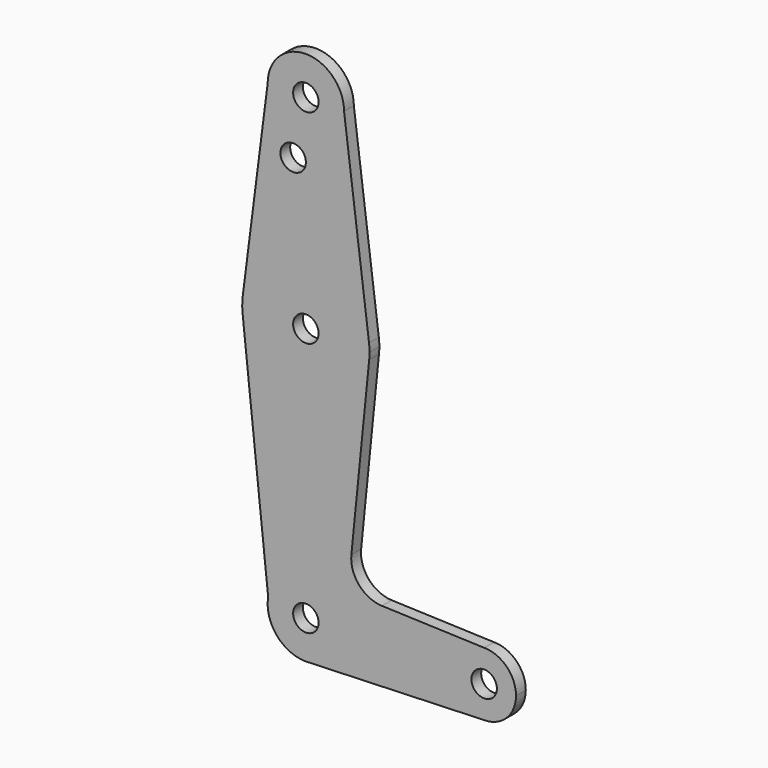
from build123d import *

# Parameters (mm, degrees)
F0_R     = 3.175
F1_DEPTH = 3.048


with BuildPart() as f1:
    # F0 (on Front) → F1 (new body)
    with BuildSketch(Plane.XZ):
        with BuildLine():
            ThreePointArc((44.45, -7.9375), (50.06266, -5.61266), (52.3875, 0))
            ThreePointArc((52.3875, 0), (50.06266, 5.61266), (44.45, 7.9375))
            ThreePointArc((44.45, 7.9375), (36.5125, 0), (44.45, -7.9375))
        make_face()
        with Locations((44.45, 0)):
            Circle(F0_R, mode=Mode.SUBTRACT)
        with BuildLine():
            ThreePointArc((44.45, -7.9375), (36.5125, 0), (44.45, 7.9375))
            Line((44.45, 7.9375), (18.966408, 8.851137))
            ThreePointArc((18.966408, 8.851137), (13.260628, 11.569562), (11.340903, 17.591224))
            Line((11.340903, 17.591224), (15.786742, 61.828355))
            ThreePointArc((15.786742, 61.828355), (0, 47.625), (-15.786742, 61.828355))
            Line((-15.786742, 61.828355), (-9.401609, 1.528192))
            ThreePointArc((-9.401609, 1.528192), (0.766583, 9.494102), (9.525, 0))
            ThreePointArc((9.525, 0), (6.97129, -6.490511), (0.67949, -9.500732))
            Line((0.67949, -9.500732), (44.45, -7.9375))
        make_face()
        with BuildLine():
            Line((0, -9.525), (0.67949, -9.500732))
            ThreePointArc((0.67949, -9.500732), (6.97129, -6.490511), (9.525, 0))
            ThreePointArc((9.525, 0), (0.766583, 9.494102), (-9.401609, 1.528192))
            Line((-9.401609, 1.528192), (-8.873066, -3.463282))
            ThreePointArc((-8.873066, -3.463282), (-5.372982, -7.864903), (0, -9.525))
        make_face()
        Circle(F0_R, mode=Mode.SUBTRACT)
        with BuildLine():
            ThreePointArc((0, -9.525), (0.339962, -9.518931), (0.67949, -9.500732))
            Line((0.67949, -9.500732), (0, -9.525))
        make_face()
        with BuildLine():
            ThreePointArc((-15.786742, 61.828355), (0, 47.625), (15.786742, 61.828355))
            ThreePointArc((15.786742, 61.828355), (15.85292, 62.663013), (15.875, 63.5))
            ThreePointArc((15.875, 63.5), (15.843082, 64.506168), (15.747457, 65.508289))
            ThreePointArc((15.747457, 65.508289), (0, 79.375), (-15.747457, 65.508289))
            ThreePointArc((-15.747457, 65.508289), (-15.874095, 63.669465), (-15.786742, 61.828355))
        make_face()
        with Locations((0, 63.5)):
            Circle(F0_R, mode=Mode.SUBTRACT)
        with BuildLine():
            ThreePointArc((-9.401609, 1.528192), (-9.472045, -1.002987), (-8.873066, -3.463282))
            Line((-8.873066, -3.463282), (-9.401609, 1.528192))
        make_face()
        with BuildLine():
            Line((-9.525, 114.3), (-15.747457, 65.508289))
            ThreePointArc((-15.747457, 65.508289), (0, 79.375), (15.747457, 65.508289))
            Line((15.747457, 65.508289), (9.525, 114.3))
            ThreePointArc((9.525, 114.3), (0, 104.775), (-9.525, 114.3))
        make_face()
        with Locations((-3.175, 100.0252)):
            Circle(F0_R, mode=Mode.SUBTRACT)
        with BuildLine():
            ThreePointArc((9.525, 114.3), (0, 123.825), (-9.525, 114.3))
            ThreePointArc((-9.525, 114.3), (0, 104.775), (9.525, 114.3))
        make_face()
        with Locations((0, 114.3)):
            Circle(F0_R, mode=Mode.SUBTRACT)
    extrude(amount=F1_DEPTH)


solid = f1.part
